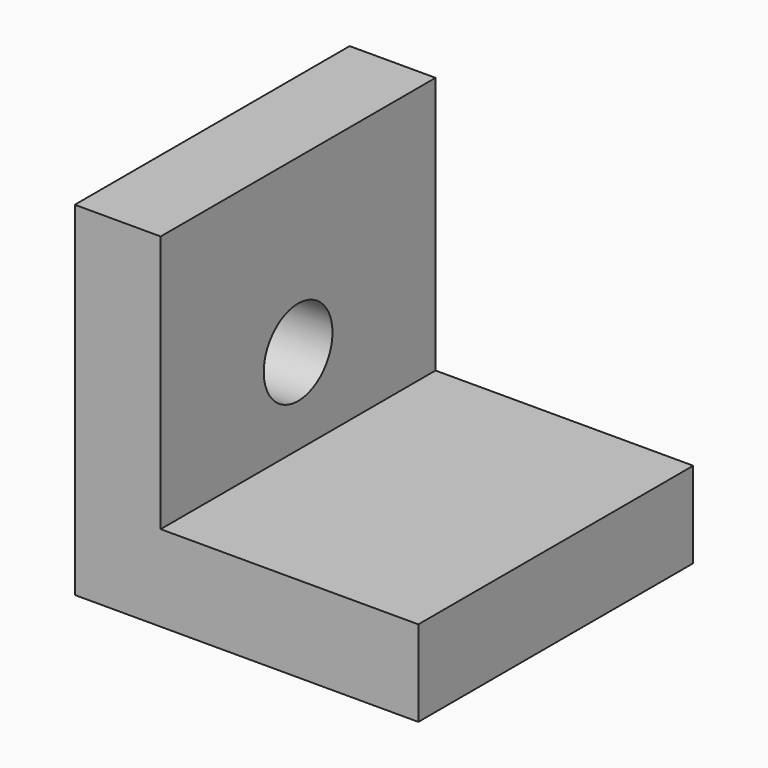
from build123d import *

# Parameters (mm, degrees)
F0_W     = 50.8
F0_H     = 50.8
F0_R     = 6.35
F1_DEPTH = 12.7
F2_W     = 50.8
F2_H     = 12.7
F3_DEPTH = 38.1


with BuildPart() as f1:
    # F0 (on Right) → F1 (new body)
    with BuildSketch(Plane.YZ):
        with Locations((-2.300724, 31.455508)):
            Rectangle(F0_W, F0_H)
        with Locations((-2.300724, 31.455508)):
            Circle(F0_R, mode=Mode.SUBTRACT)
    extrude(amount=-F1_DEPTH)

    # F2 (on face) → F3 (join)
    with BuildSketch(Plane.YZ):
        with Locations((-2.300724, 12.405508)):
            Rectangle(F2_W, F2_H)
    extrude(amount=F3_DEPTH)


solid = f1.part
